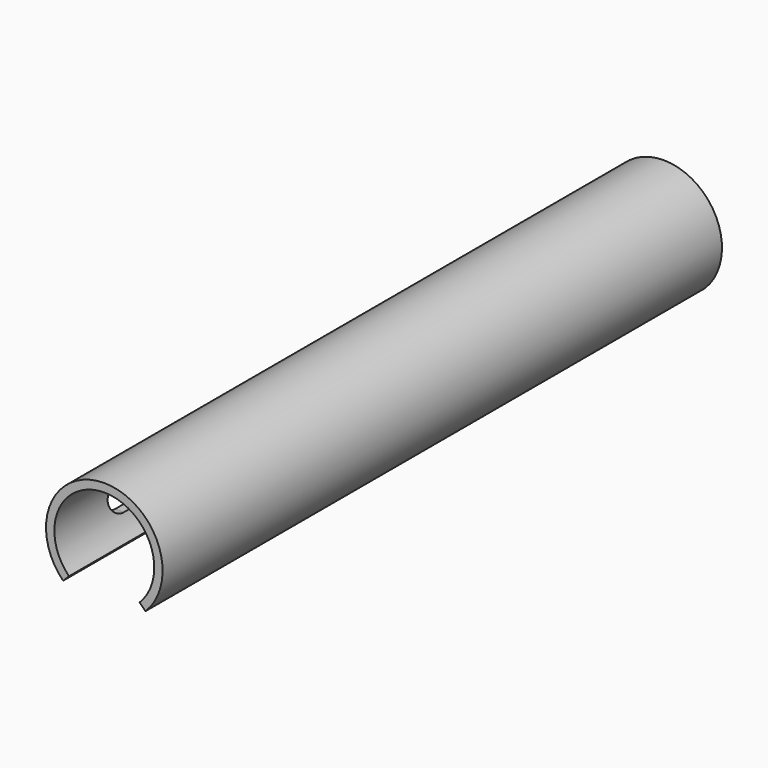
from build123d import *

# Parameters (mm, degrees)
F0_W     = 133.35
F0_H     = 1.5875
F1_ANGLE = 270
F3_DEPTH = 25.4


with BuildPart() as f1:
    # F0 (on Right) → F1 (revolve, symmetric)
    with BuildSketch(Plane.YZ) as f1_sk:
        with Locations((60.325, 10.31875)):
            Rectangle(F0_W, F0_H)
    revolve(axis=Axis((0, 7.590322, 0), (0, 1, 0)), revolution_arc=F1_ANGLE / 2)
    revolve(f1_sk.sketch, axis=Axis((0, 7.590322, 0), (0, -1, 0)), revolution_arc=F1_ANGLE / 2)

    # F2 (on Right) → F3 (cut)
    with BuildSketch(Plane.YZ):
        with BuildLine():
            Line((111.125, 3.175), (9.525, 3.175))
            ThreePointArc((9.525, 3.175), (6.35, 0), (9.525, -3.175))
            Line((9.525, -3.175), (111.125, -3.175))
            ThreePointArc((111.125, -3.175), (114.3, 0), (111.125, 3.175))
        make_face()
    extrude(amount=-F3_DEPTH, mode=Mode.SUBTRACT)


solid = f1.part
